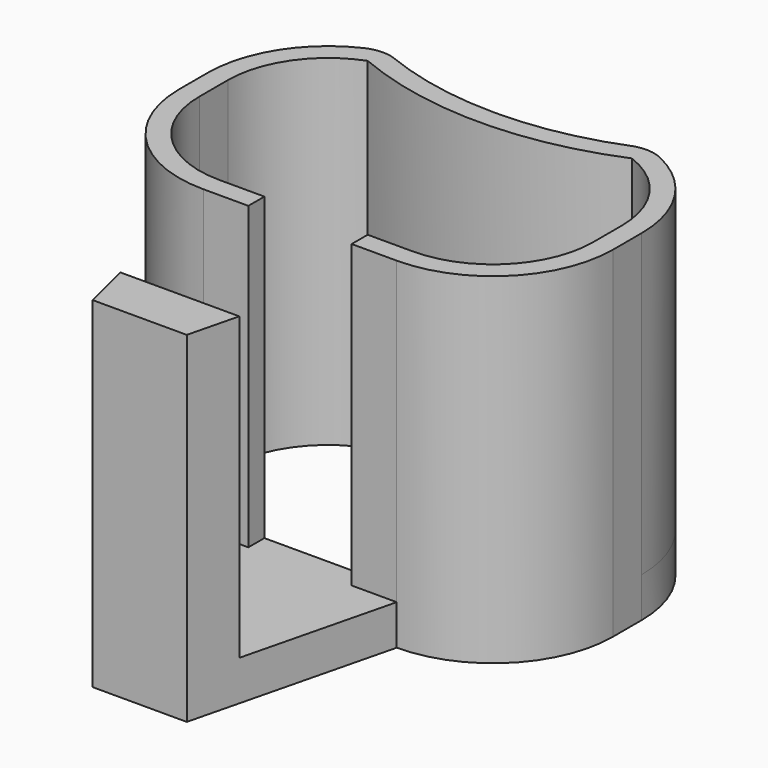
from build123d import *

# Parameters (mm, degrees)
F1_DEPTH = 5.08
F2_DEPTH = 38.1
F4_DEPTH = 38.1


with BuildPart() as f1:
    # F0 (on Top) → F1 (new body)
    with BuildSketch(Plane.XY):
        with BuildLine():
            ThreePointArc((-35.722549, 0.33281), (-31.258856, -10.443497), (-20.482549, -14.90719))
            Line((-20.482549, -14.90719), (-14.572549, -14.90719))
            Line((-14.572549, -14.90719), (-14.572549, -12.36719))
            Line((-14.572549, -12.36719), (-20.482549, -12.36719))
            ThreePointArc((-20.482549, -12.36719), (-29.462805, -8.647446), (-33.182549, 0.33281))
            Line((-33.182549, 0.33281), (-33.182549, 4.85281))
            ThreePointArc((-33.182549, 4.85281), (-30.926513, 12.07871), (-24.959931, 16.737382))
            ThreePointArc((-24.959931, 16.737382), (-8.222549, 13.368036), (8.514833, 16.737382))
            ThreePointArc((8.514833, 16.737382), (14.481415, 12.07871), (16.737451, 4.85281))
            Line((16.737451, 4.85281), (16.737451, 0.33281))
            ThreePointArc((16.737451, 0.33281), (13.017707, -8.647446), (4.037451, -12.36719))
            Line((4.037451, -12.36719), (-1.872549, -12.36719))
            Line((-1.872549, -12.36719), (-1.872549, -14.90719))
            Line((-1.872549, -14.90719), (4.037451, -14.90719))
            ThreePointArc((4.037451, -14.90719), (14.813758, -10.443497), (19.277451, 0.33281))
            Line((19.277451, 0.33281), (19.277451, 4.85281))
            ThreePointArc((19.277451, 4.85281), (16.8835, 13.052604), (10.453746, 18.676295))
            ThreePointArc((10.453746, 18.676295), (8.793055, 19.090901), (7.092291, 18.89803))
            ThreePointArc((7.092291, 18.89803), (-8.222549, 15.908036), (-23.537389, 18.89803))
            ThreePointArc((-23.537389, 18.89803), (-25.238153, 19.090901), (-26.898845, 18.676295))
            ThreePointArc((-26.898845, 18.676295), (-33.328598, 13.052604), (-35.722549, 4.85281))
            Line((-35.722549, 4.85281), (-35.722549, 0.33281))
        make_face()
        Polygon((-14.572549, -14.90719), (-20.482549, -14.90719), (-14.196299, -40.30719), (-2.248799, -40.30719), (4.037451, -14.90719), (-1.872549, -14.90719), (-1.872549, -12.36719), (-14.572549, -12.36719), align=None)
    extrude(amount=F1_DEPTH)

    # F1_face (on face) → F2 (join)
    with BuildSketch(Plane(origin=(-8.222549, -13.641233, 5.08), x_dir=(1, 0, 0), z_dir=(0, 0, 1))):
        with BuildLine():
            ThreePointArc((-18.676295, 32.317529), (-25.106049, 26.693838), (-27.5, 18.494043))
            Line((-27.5, 18.494043), (-27.5, 13.974043))
            ThreePointArc((-27.5, 13.974043), (-23.036307, 3.197736), (-12.26, -1.265957))
            Line((-12.26, -1.265957), (-5.97375, -26.665957))
            Line((-5.97375, -26.665957), (5.97375, -26.665957))
            Line((5.97375, -26.665957), (12.26, -1.265957))
            ThreePointArc((12.26, -1.265957), (23.036307, 3.197736), (27.5, 13.974043))
            Line((27.5, 13.974043), (27.5, 18.494043))
            ThreePointArc((27.5, 18.494043), (25.106049, 26.693838), (18.676295, 32.317529))
            ThreePointArc((18.676295, 32.317529), (17.015604, 32.732134), (15.31484, 32.539264))
            ThreePointArc((15.31484, 32.539264), (0, 29.54927), (-15.31484, 32.539264))
            ThreePointArc((-15.31484, 32.539264), (-17.015604, 32.732134), (-18.676295, 32.317529))
        make_face()
        with BuildLine():
            ThreePointArc((-12.26, 1.274043), (-21.240256, 4.993787), (-24.96, 13.974043))
            Line((-24.96, 13.974043), (-24.96, 18.494043))
            ThreePointArc((-24.96, 18.494043), (-22.703964, 25.719943), (-16.737382, 30.378615))
            ThreePointArc((-16.737382, 30.378615), (0, 27.00927), (16.737382, 30.378615))
            ThreePointArc((16.737382, 30.378615), (22.703964, 25.719943), (24.96, 18.494043))
            Line((24.96, 18.494043), (24.96, 13.974043))
            ThreePointArc((24.96, 13.974043), (21.240256, 4.993787), (12.26, 1.274043))
            Line((12.26, 1.274043), (-12.26, 1.274043))
        make_face(mode=Mode.SUBTRACT)
    extrude(amount=F2_DEPTH)

    # F3 (on face) → F4 (cut)
    with BuildSketch(Plane.XY.offset(43.18)):
        Polygon((-1.675596, -12.36719), (-8.222549, -12.36719), (-8.222549, -33.957191), (-2.248799, -33.957191), (0.130134, -33.957191), (10.344629, -14.90719), (-1.675596, -14.90719), align=None)
        Polygon((-8.222549, -33.957191), (-8.222549, -12.36719), (-14.769502, -12.36719), (-14.769502, -14.90719), (-26.789727, -14.90719), (-16.575232, -33.957191), (-14.196299, -33.957191), align=None)
    extrude(amount=-F4_DEPTH, mode=Mode.SUBTRACT)


solid = f1.part
